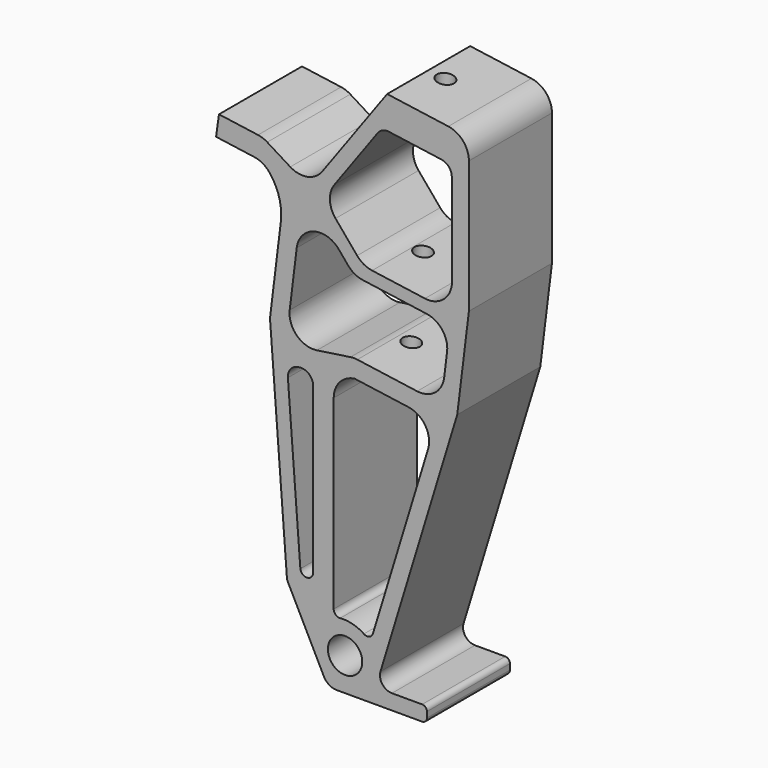
from build123d import *

# Parameters (mm, degrees)
F0_R     = 9.1313
F1_DEPTH = 55.1688
F2_R     = 4.590873
F3_DEPTH = 152.4


with BuildPart() as f1:
    # F0 (on Front) → F1 (new body)
    with BuildSketch(Plane.XZ):
        with BuildLine():
            ThreePointArc((5.690516, 60.901123), (8.49944, 57.841701), (12.495555, 56.709803))
            Line((12.495555, 56.709803), (57.916488, 56.709803))
            ThreePointArc((57.916488, 56.709803), (59.71254, 57.453752), (60.456488, 59.249803))
            Line((60.456488, 59.249803), (60.456488, 62.247003))
            ThreePointArc((60.456488, 62.247003), (59.71254, 64.043054), (57.916488, 64.787003))
            Line((57.916488, 64.787003), (41.860021, 64.787003))
            ThreePointArc((41.860021, 64.787003), (36.75553, 67.359878), (35.787486, 72.993563))
            Line((35.787486, 72.993563), (76.573475, 206.398524))
            Line((76.573475, 206.398524), (82.764438, 256.819868))
            Line((82.764438, 256.819868), (82.764438, 327.140741))
            ThreePointArc((82.764438, 327.140741), (79.649249, 335.472691), (71.831936, 339.717145))
            Line((71.831936, 339.717145), (39.319936, 344.286409))
            Line((39.319936, 344.286409), (4.80626, 296.78241))
            ThreePointArc((4.80626, 296.78241), (-3.021214, 291.785261), (-12.157108, 293.451485))
            Line((-12.157108, 293.451485), (-24.39685, 301.034975))
            ThreePointArc((-24.39685, 301.034975), (-26.76481, 302.181534), (-29.318204, 302.815581))
            Line((-29.318204, 302.815581), (-50.053234, 305.729699))
            Line((-50.053234, 305.729699), (-51.601562, 294.712769))
            Line((-51.601562, 294.712769), (-31.353263, 291.867056))
            ThreePointArc((-31.353263, 291.867056), (-26.860403, 290.340444), (-23.241498, 287.271263))
            ThreePointArc((-23.241498, 287.271263), (-18.05967, 277.295323), (-17.18101, 266.08824))
            Line((-17.18101, 266.08824), (-22.943347, 219.157768))
            Line((-22.943347, 219.157768), (-13.954531, 100.743315))
            ThreePointArc((-13.954531, 100.743315), (-13.783375, 99.766758), (-13.425797, 98.842044))
            Line((-13.425797, 98.842044), (5.690516, 60.901123))
        make_face()
        with BuildLine():
            ThreePointArc((0, 107.610365), (-3.195116, 104.203), (-6.80066, 107.172673))
            Line((-6.80066, 107.172673), (-13.422605, 194.407079))
            ThreePointArc((-13.422605, 194.407079), (-12.050117, 198.853564), (-8.01427, 201.170218))
            Line((-8.01427, 201.170218), (-7.273448, 201.27911))
            ThreePointArc((-7.273448, 201.27911), (-2.199181, 199.802153), (0, 194.996615))
            Line((0, 194.996615), (0, 107.610365))
        make_face(mode=Mode.SUBTRACT)
        with Locations((16.958988, 74.324703)):
            Circle(F0_R, mode=Mode.SUBTRACT)
        with BuildLine():
            Line((21.773085, 205.443941), (22.146465, 205.498823))
            Line((22.146465, 205.498823), (50.683851, 201.488155))
            ThreePointArc((50.683851, 201.488155), (59.627424, 195.735456), (61.061423, 185.19863))
            Line((61.061423, 185.19863), (31.771058, 89.394163))
            ThreePointArc((31.771058, 89.394163), (29.797055, 87.330417), (26.963626, 87.687371))
            ThreePointArc((26.963626, 87.687371), (20.942359, 90.395582), (14.363594, 90.952282))
            ThreePointArc((14.363594, 90.952282), (11.946985, 91.777794), (10.919982, 94.115899))
            Line((10.919982, 94.115899), (10.919982, 192.878951))
            ThreePointArc((10.919982, 192.878951), (14.008905, 201.18059), (21.773085, 205.443941))
        make_face(mode=Mode.SUBTRACT)
        with BuildLine():
            Line((55.24467, 210.414482), (23.465019, 214.880821))
            ThreePointArc((23.465019, 214.880821), (21.657413, 215.004353), (19.850623, 214.869406))
            Line((19.850623, 214.869406), (1.98934, 212.244021))
            ThreePointArc((1.98934, 212.244021), (-8.730453, 215.722663), (-12.462892, 226.356751))
            Line((-12.462892, 226.356751), (-8.740444, 256.673662))
            ThreePointArc((-8.740444, 256.673662), (0.247859, 267.299954), (13.580182, 263.305356))
            Line((13.580182, 263.305356), (18.524945, 257.432113))
            ThreePointArc((18.524945, 257.432113), (22.092313, 254.498804), (26.472736, 253.035143))
            Line((26.472736, 253.035143), (60.340027, 248.275405))
            ThreePointArc((60.340027, 248.275405), (68.648116, 243.430271), (71.177865, 234.15126))
            Line((71.177865, 234.15126), (69.617505, 221.443146))
            ThreePointArc((69.617505, 221.443146), (64.743439, 212.915299), (55.24467, 210.414482))
        make_face(mode=Mode.SUBTRACT)
        with BuildLine():
            Line((59.405725, 255.152563), (31.327721, 259.098669))
            ThreePointArc((31.327721, 259.098669), (26.947298, 260.562331), (23.37993, 263.495639))
            Line((23.37993, 263.495639), (11.885566, 277.148304))
            ThreePointArc((11.885566, 277.148304), (8.908962, 284.87405), (11.32634, 292.792611))
            Line((11.32634, 292.792611), (34.283751, 324.390777))
            ThreePointArc((34.283751, 324.390777), (36.939866, 326.503546), (40.304758, 326.946542))
            Line((40.304758, 326.946542), (68.204987, 323.025421))
            ThreePointArc((68.204987, 323.025421), (72.113644, 320.903194), (73.671238, 316.737219))
            Line((73.671238, 316.737219), (73.671238, 266.044077))
            ThreePointArc((73.671238, 266.044077), (68.814325, 257.61746), (59.405725, 255.152563))
        make_face(mode=Mode.SUBTRACT)
    extrude(amount=F1_DEPTH)

    # F2 (on face) → F3 (cut)
    with BuildSketch(Plane(origin=(48.210692, 0, 343.036895), x_dir=(0.990268, 0, -0.139173), z_dir=(0.139173, 0, 0.990268))):
        with Locations((0, -27.5844)):
            Circle(F2_R)
    extrude(amount=-F3_DEPTH, mode=Mode.SUBTRACT)


solid = f1.part
